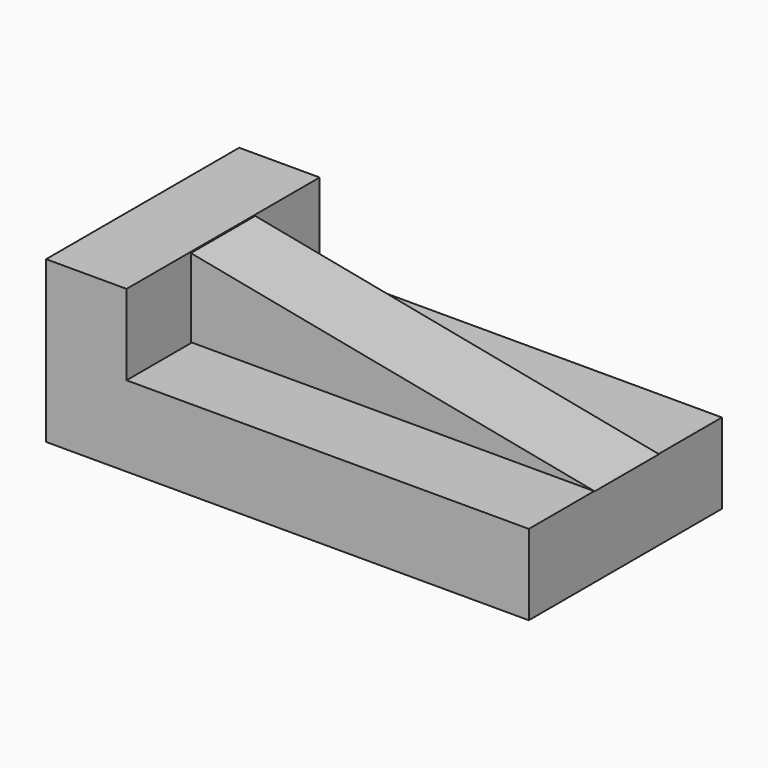
from build123d import *

# Parameters (mm, degrees)
F0_W     = 152.4
F0_H     = 50.8
F1_DEPTH = 76.2
F2_W     = 127
F2_H     = 76.2
F3_DEPTH = 25.4
F4_W     = 127.508001402
F4_H     = 24.7650016099
F5_DEPTH = 76.2
F6_DEPTH = 25.4
F7_DEPTH = 25.4
F9_DEPTH = 25.4


with BuildPart() as f1:
    # F0 (on Front) → F1 (new body)
    with BuildSketch(Plane.XZ):
        with Locations((22.7011106901, -25.0276401639)):
            Rectangle(F0_W, F0_H)
    extrude(amount=-F1_DEPTH)

    # F2 (on face) → F3 (cut)
    with BuildSketch(Plane.XY.offset(0.3723598361)):
        with Locations((35.4011106901, 38.1)):
            Rectangle(F2_W, F2_H)
    extrude(amount=-F3_DEPTH, mode=Mode.SUBTRACT)


with BuildPart() as f5:
    # F4 (on Front) → F5 (new body)
    with BuildSketch(Plane.XZ):
        with Locations((35.6075530872, -12.382500805)):
            Rectangle(F4_W, F4_H)
    extrude(amount=-F5_DEPTH)

    # F6 (cut): a face of the model
    f6_faces = [f5.faces().sort_by_distance(p)[0] for p in [
        (35.6075530872, 0, -12.382500805),
    ]]
    extrude(f6_faces, amount=-F6_DEPTH, mode=Mode.SUBTRACT)

    # F7 (cut): a face of the model
    f7_faces = [f5.faces().sort_by_distance(p)[0] for p in [
        (35.6075530872, 76.2, -12.382500805),
    ]]
    extrude(f7_faces, amount=-F7_DEPTH, mode=Mode.SUBTRACT)


with BuildPart() as f9_tool:
    # F8 (on face) → F9 (new body)
    with BuildSketch(Plane.XZ.offset(-25.4)):
        Polygon((99.3615537882, 0), (-28.1464476138, 0), (99.3615537882, -24.7650016099), align=None)
    extrude(amount=-F9_DEPTH)


with BuildPart() as f1_1:
    add(f1.part)

    # F9: cut by f9_tool
    add(f9_tool.part, mode=Mode.SUBTRACT)


with BuildPart() as f5_1:
    add(f5.part)

    # F9: cut by f9_tool
    add(f9_tool.part, mode=Mode.SUBTRACT)


solid = Compound([f1_1.part, f5_1.part])
